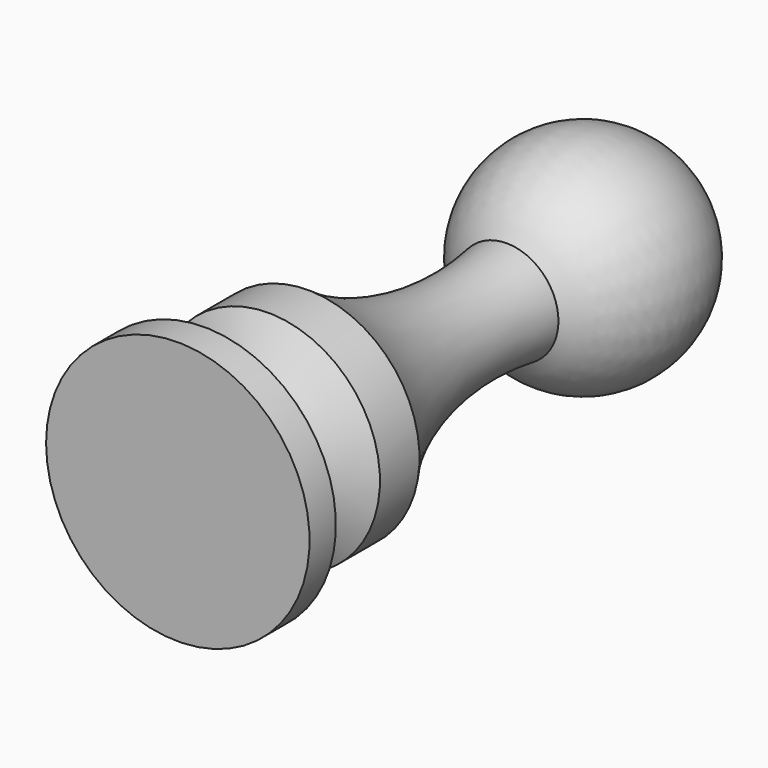
from build123d import *


with BuildPart() as f1:
    # F0 (on Top) → F1 (revolve)
    with BuildSketch(Plane.XY):
        with BuildLine():
            Line((-8, 0), (0, 0))
            Line((0, 0), (0, 37.344937))
            ThreePointArc((0, 37.344937), (-6.387622, 32.375548), (-3.141686, 24.962018))
            ThreePointArc((-3.141686, 24.962018), (-3.436771, 17.048593), (-6.78, 9.87))
            Line((-6.78, 9.87), (-6.78, 6.87))
            Line((-6.78, 6.87), (-4, 5.14))
            Line((-4, 5.14), (-8, 2))
            Line((-8, 2), (-8, 0))
        make_face()
    revolve(axis=Axis((0, 18.672468, 0), (0, 1, 0)))


solid = f1.part
